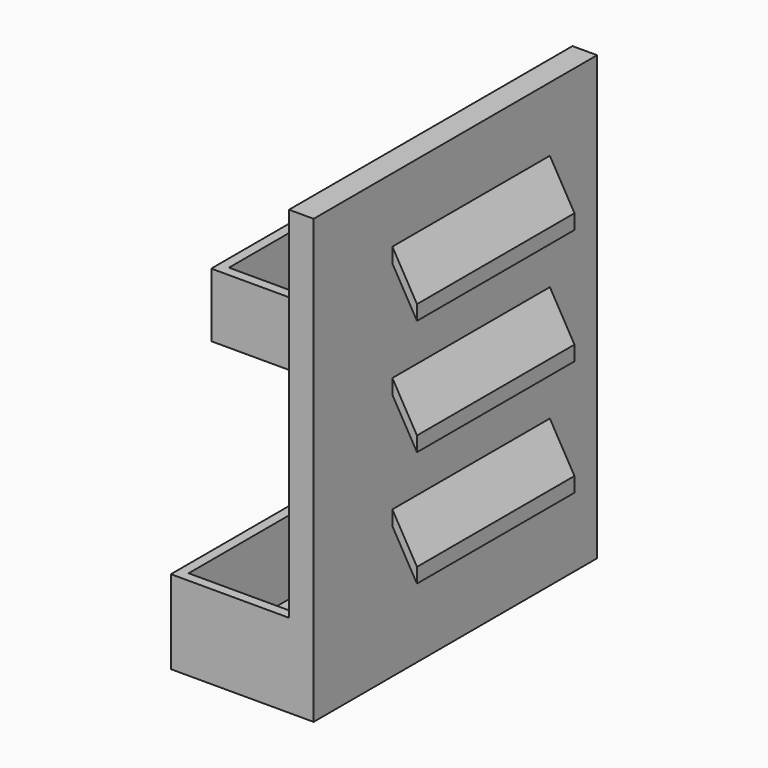
from build123d import *

# Parameters (mm, degrees)
F1_DEPTH  = 90
F2_DEPTH  = 17
F0_W      = 22
F0_H      = 68
F3_DEPTH  = 2
F6_DEPTH  = 13
F5_W      = 19
F5_H      = 55
F7_DEPTH  = 2
F10_DEPTH = 20


with BuildPart() as f1:
    # F0 (on Top) → F1 (new body)
    with BuildSketch(Plane.XY):
        Polygon((2.5, -36), (2.5, 36), (-2.5, 36), (-2.5, 34), (-2.5, -34), (-2.5, -36), align=None)
    extrude(amount=F1_DEPTH)

    # F0 (on Top) → F2 (join)
    with BuildSketch(Plane.XY):
        Polygon((-2.5, 34), (-2.5, 36), (-26.5, 36), (-26.5, -36), (-2.5, -36), (-2.5, -34), (-24.5, -34), (-24.5, 34), align=None)
    extrude(amount=F2_DEPTH)

    # F0 (on Top) → F3 (join)
    with BuildSketch(Plane.XY):
        with Locations((-13.5, 0)):
            Rectangle(F0_W, F0_H)
    extrude(amount=F3_DEPTH)

    # F5 (on offset) → F6 (join)
    with BuildSketch(Plane.XY.offset(57)):
        Polygon((-2.5, 27.5), (-2.5, 29.5), (-23.5, 29.5), (-23.5, -29.5), (-2.5, -29.5), (-2.5, -27.5), (-21.5, -27.5), (-21.5, 27.5), align=None)
    extrude(amount=F6_DEPTH)

    # F5 (on offset) → F7 (join)
    with BuildSketch(Plane.XY.offset(57)):
        with Locations((-12, 0)):
            Rectangle(F5_W, F5_H)
    extrude(amount=F7_DEPTH)

    # F9 (on offset) → F10 (join, symmetric)
    with BuildSketch(Plane.XZ.offset(-4)):
        Polygon((7.5, 68.2301041718), (2.5, 76.8903582096), (2.5, 73.8903582096), (7.5, 65.2301041718), align=None)
        Polygon((7.5, 44.7301041718), (2.5, 53.3903582096), (2.5, 50.3903582096), (7.5, 41.7301041718), align=None)
        Polygon((7.5, 21.2301041718), (2.5, 29.8903582096), (2.5, 26.8903582096), (7.5, 18.2301041718), align=None)
    extrude(amount=F10_DEPTH, both=True)


solid = f1.part
